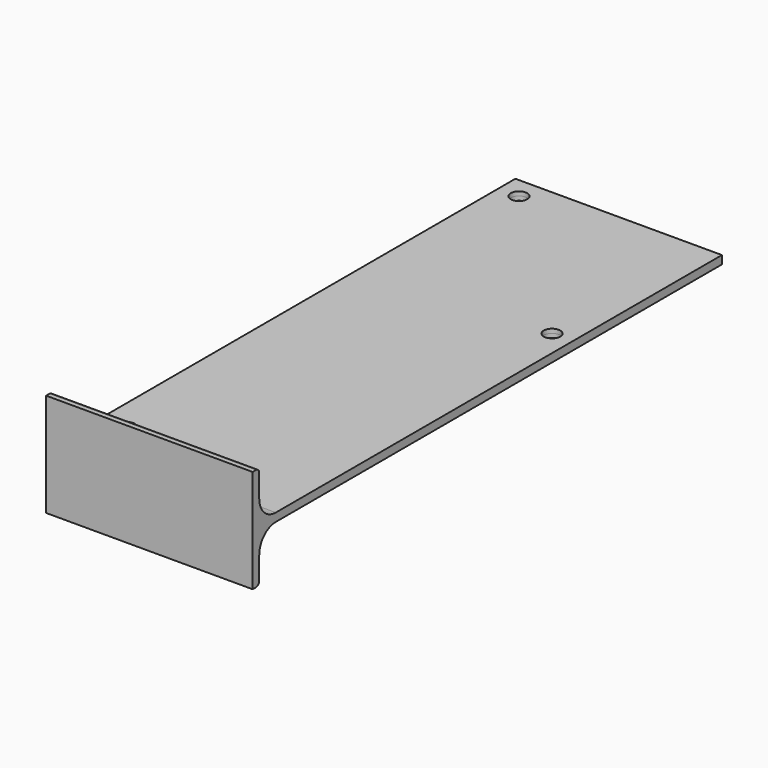
from build123d import *

# Parameters (mm, degrees)
PAD_DEPTH            = 25
FILLET_R             = 5
SKETCH001_R          = 2
SKETCH001_R_2        = 1.5
POCKET_DEPTH         = 12.501
POCKET_DEPTH_BACK    = -12.501
FILLET001_R          = 1
BODY_PLACEMENT_ANGLE = 270


with BuildPart() as part:
    # Sketch → Pad (new body, symmetric)
    with BuildSketch(Plane.XY):
        Polygon((-12.5, 1), (-12.5, -1), (12.5, -1), (12.5, 1), (1, 1), (1, 141), (-1, 141), (-1, 1), align=None)
    extrude(amount=PAD_DEPTH, both=True)

    # Fillet
    fillet_edges = [part.edges().sort_by_distance(p)[0] for p in [
        (-1, 1, 0),
        (1, 1, 0),
    ]]
    fillet(fillet_edges, radius=FILLET_R)

    # Sketch001 → Pocket (cut, two sides)
    with BuildSketch(Plane.YZ) as pocket_sk:
        with Locations((135.847954, 20)):
            Circle(SKETCH001_R)
        with Locations((95.847954, -20)):
            Circle(SKETCH001_R)
        with Locations((9.567412, 14.346174)):
            Circle(SKETCH001_R_2)
        with Locations((16.322672, 18.952028)):
            Circle(SKETCH001_R_2)
    extrude(amount=-POCKET_DEPTH, mode=Mode.SUBTRACT)
    extrude(pocket_sk.sketch, amount=-POCKET_DEPTH_BACK, mode=Mode.SUBTRACT)

    # Fillet001
    fillet001_edges = [part.edges().sort_by_distance(p)[0] for p in [
        (-12.5, 1, 0),
        (12.5, 1, 0),
    ]]
    fillet(fillet001_edges, radius=FILLET001_R)


with BuildPart() as part_1:
    # Body placement: moved
    add(part.part.rotate(Axis((0, 0, 0), (0, 1, 0)), BODY_PLACEMENT_ANGLE))


solid = part_1.part
